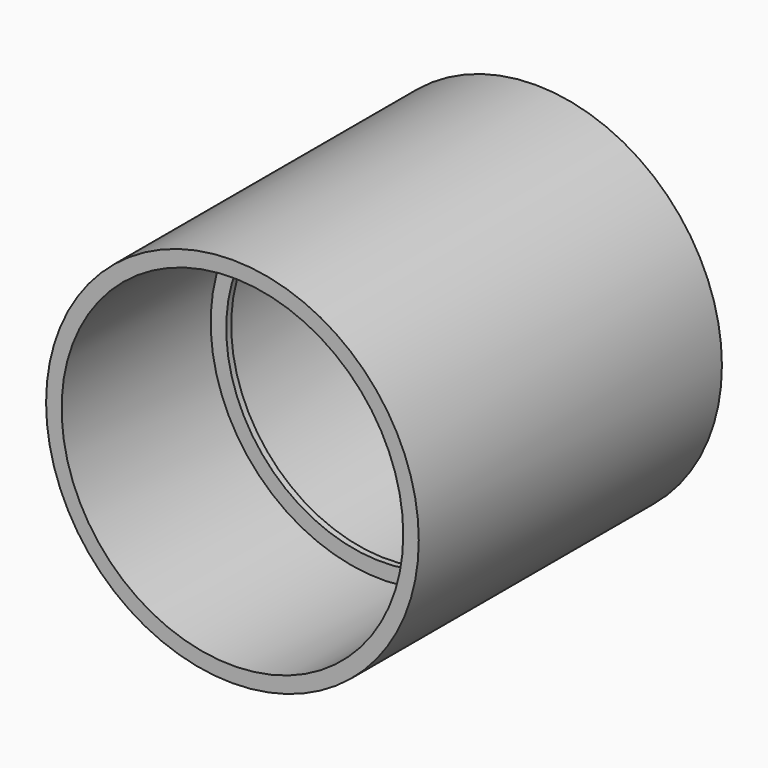
from build123d import *

# Parameters (mm, degrees)
F0_R     = 30
F0_R_2   = 27.5
F1_DEPTH = 31
F0_R_3   = 25
F2_DEPTH = 1
F3_DEPTH = 30


with BuildPart() as f1:
    # F0 (on Front) → F1 (new body)
    with BuildSketch(Plane.XZ):
        Circle(F0_R)
        Circle(F0_R_2, mode=Mode.SUBTRACT)
    extrude(amount=F1_DEPTH)

    # F0 (on Front) → F2 (join)
    with BuildSketch(Plane.XZ):
        Circle(F0_R_2)
        Circle(F0_R_3, mode=Mode.SUBTRACT)
    extrude(amount=F2_DEPTH)

    # F0 (on Front) → F3 (join)
    with BuildSketch(Plane.XZ):
        Circle(F0_R)
        Circle(F0_R_2, mode=Mode.SUBTRACT)
    extrude(amount=-F3_DEPTH)


solid = f1.part
